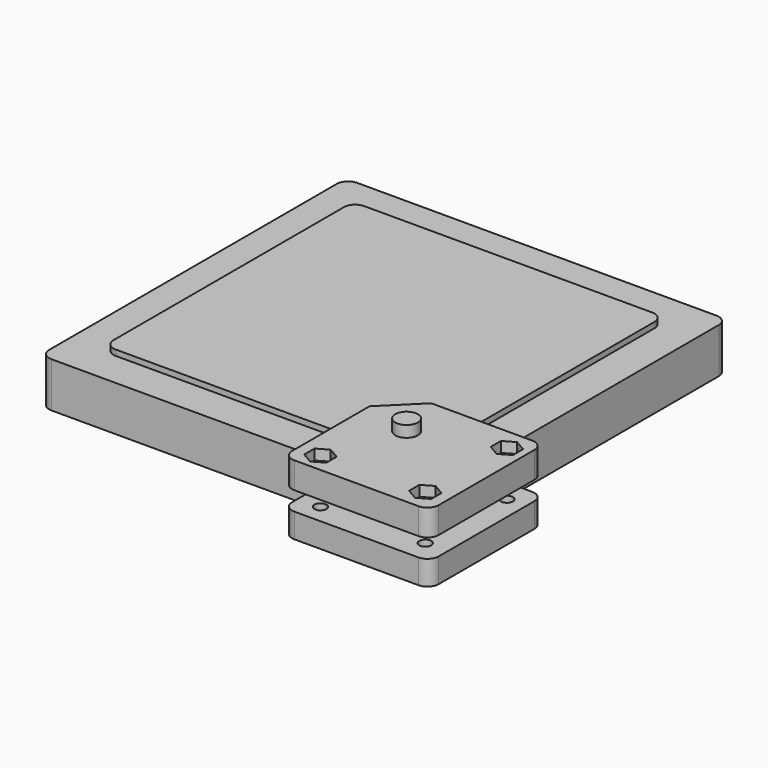
from build123d import *

# Parameters (mm, degrees)
F1_DEPTH  = 12
F0_R      = 3
F2_DEPTH  = 13.5
F3_DEPTH  = 19
F4_R      = 1.9
F5_DEPTH  = 7
F10_DEPTH = 2.8
F13_DEPTH = 6.5
F16_R     = 3.2
F17_DEPTH = 3.5
F19_R     = 1.6
F20_DEPTH = 6.501


with BuildPart() as f1:
    # F0 (on Top) → F1 (new body)
    with BuildSketch(Plane.XY):
        with BuildLine():
            Line((1.1045844555, 32.365380348), (-94.4954155445, 32.365380348))
            ThreePointArc((-94.4954155445, 32.365380348), (-96.6167358881, 31.4867006915), (-97.4954155445, 29.365380348))
            Line((-97.4954155445, 29.365380348), (-97.4954155445, -66.234619652))
            ThreePointArc((-97.4954155445, -66.234619652), (-96.6167358881, -68.3559399956), (-94.4954155445, -69.234619652))
            Line((-94.4954155445, -69.234619652), (1.1045844555, -69.234619652))
            ThreePointArc((1.1045844555, -69.234619652), (3.225904799, -68.3559399956), (4.1045844555, -66.234619652))
            Line((4.1045844555, -66.234619652), (4.1045844555, 29.365380348))
            ThreePointArc((4.1045844555, 29.365380348), (3.225904799, 31.4867006915), (1.1045844555, 32.365380348))
        make_face()
        with BuildLine():
            ThreePointArc((-87.9954155445, 19.865380348), (-87.1167358881, 21.9867006915), (-84.9954155445, 22.865380348))
            Line((-84.9954155445, 22.865380348), (-8.3954155445, 22.865380348))
            ThreePointArc((-8.3954155445, 22.865380348), (-6.274095201, 21.9867006915), (-5.3954155445, 19.865380348))
            Line((-5.3954155445, 19.865380348), (-5.3954155445, -56.734619652))
            ThreePointArc((-5.3954155445, -56.734619652), (-6.274095201, -58.8559399956), (-8.3954155445, -59.734619652))
            Line((-8.3954155445, -59.734619652), (-84.9954155445, -59.734619652))
            ThreePointArc((-84.9954155445, -59.734619652), (-87.1167358881, -58.8559399956), (-87.9954155445, -56.734619652))
            Line((-87.9954155445, -56.734619652), (-87.9954155445, 19.865380348))
        make_face(mode=Mode.SUBTRACT)
    extrude(amount=F1_DEPTH)

    # F0 (on Top) → F2 (join)
    with BuildSketch(Plane.XY):
        with BuildLine():
            Line((-8.3954155445, 22.865380348), (-84.9954155445, 22.865380348))
            ThreePointArc((-84.9954155445, 22.865380348), (-87.1167358881, 21.9867006915), (-87.9954155445, 19.865380348))
            Line((-87.9954155445, 19.865380348), (-87.9954155445, -56.734619652))
            ThreePointArc((-87.9954155445, -56.734619652), (-87.1167358881, -58.8559399956), (-84.9954155445, -59.734619652))
            Line((-84.9954155445, -59.734619652), (-8.3954155445, -59.734619652))
            ThreePointArc((-8.3954155445, -59.734619652), (-6.274095201, -58.8559399956), (-5.3954155445, -56.734619652))
            Line((-5.3954155445, -56.734619652), (-5.3954155445, 19.865380348))
            ThreePointArc((-5.3954155445, 19.865380348), (-6.274095201, 21.9867006915), (-8.3954155445, 22.865380348))
        make_face()
        with Locations((-11.8954155445, -54.434619652)):
            Circle(F0_R, mode=Mode.SUBTRACT)
    extrude(amount=F2_DEPTH)

    # F0 (on Top) → F3 (join)
    with BuildSketch(Plane.XY):
        with Locations((-11.8954155445, -54.434619652)):
            Circle(F0_R)
    extrude(amount=F3_DEPTH)


with BuildPart() as f5:
    # F4 (on Top) → F5 (new body)
    with BuildSketch(Plane.XY):
        with BuildLine():
            ThreePointArc((14.1045844555, -44.434619652), (13.225904799, -42.3132993085), (11.1045844555, -41.434619652))
            Line((11.1045844555, -41.434619652), (-15.7201327384, -41.434619652))
            Line((-15.7201327384, -41.434619652), (-24.8954155445, -50.4931248724))
            Line((-24.8954155445, -50.4931248724), (-24.8954155445, -76.234619652))
            ThreePointArc((-24.8954155445, -76.234619652), (-24.0167358881, -78.3559399956), (-21.8954155445, -79.234619652))
            Line((-21.8954155445, -79.234619652), (11.1045844555, -79.234619652))
            ThreePointArc((11.1045844555, -79.234619652), (13.225904799, -78.3559399956), (14.1045844555, -76.234619652))
            Line((14.1045844555, -76.234619652), (14.1045844555, -44.434619652))
        make_face()
        with Locations((-18.9954155445, -74.1897211546)):
            Circle(F4_R, mode=Mode.SUBTRACT)
        with Locations((8.2045844555, -73.334619652)):
            Circle(F4_R, mode=Mode.SUBTRACT)
        with Locations((9.113365896, -47.334619652)):
            Circle(F4_R, mode=Mode.SUBTRACT)
    extrude(amount=F5_DEPTH)


with BuildPart() as f5_1:
    # F6: moved
    add(f5.part.moved(Location((0, 0, 3))))

    # F9 (on offset) → F10 (cut)
    with BuildSketch(Plane.XY.offset(10)):
        Polygon((8.2045844555, -69.9282530638), (5.2545844555, -71.6314363579), (5.2545844555, -75.0378029461), (8.2045844555, -76.7409862402), (11.1545844555, -75.0378029461), (11.1545844555, -71.6314363579), align=None)
        Polygon((9.113365896, -43.9282530638), (6.163365896, -45.6314363579), (6.163365896, -49.0378029461), (9.113365896, -50.7409862402), (12.063365896, -49.0378029461), (12.063365896, -45.6314363579), align=None)
        Polygon((-18.9954155445, -70.7833545663), (-21.9454155445, -72.4865378605), (-21.9454155445, -75.8929044487), (-18.9954155445, -77.5960877428), (-16.0454155445, -75.8929044487), (-16.0454155445, -72.4865378605), align=None)
    extrude(amount=-F10_DEPTH, mode=Mode.SUBTRACT)


with BuildPart() as f5_2:
    # F11: moved
    add(f5_1.part.moved(Location((0, 0, 8.8))))


with BuildPart() as f5_3:
    # F12: moved
    add(f5_2.part.moved(Location((0, 0, -0.8))))


with BuildPart() as f13:
    # F7 (on Top) → F13 (new body)
    with BuildSketch(Plane.XY):
        with BuildLine():
            Line((11.1045844555, -41.434619652), (4.1045844555, -41.434619652))
            Line((4.1045844555, -41.434619652), (-24.8954155445, -69.234619652))
            Line((-24.8954155445, -69.234619652), (-24.8954155445, -76.234619652))
            ThreePointArc((-24.8954155445, -76.234619652), (-24.0167358881, -78.3559399956), (-21.8954155445, -79.234619652))
            Line((-21.8954155445, -79.234619652), (11.1045844555, -79.234619652))
            ThreePointArc((11.1045844555, -79.234619652), (13.225904799, -78.3559399956), (14.1045844555, -76.234619652))
            Line((14.1045844555, -76.234619652), (14.1045844555, -44.434619652))
            ThreePointArc((14.1045844555, -44.434619652), (13.225904799, -42.3132993085), (11.1045844555, -41.434619652))
        make_face()
    extrude(amount=F13_DEPTH)


with BuildPart() as f13_1:
    # F14: moved
    add(f13.part.moved(Location((0, 0, -2.5))))

    # F16 (on offset) → F17 (cut)
    with BuildSketch(Plane(origin=(0, 0, -2.5), x_dir=(1, 0, 0), z_dir=(0, 0, -1))):
        with Locations((-18.9954155445, 74.1897211546)):
            Circle(F16_R)
        with Locations((8.2045844555, 73.334619652)):
            Circle(F16_R)
        with Locations((9.113365896, 47.334619652)):
            Circle(F16_R)
    extrude(amount=-F17_DEPTH, mode=Mode.SUBTRACT)

    # F19 (on offset) → F20 (cut, through all)
    with BuildSketch(Plane.XY.offset(4)):
        with Locations((-18.9954155445, -74.1897211546)):
            Circle(F19_R)
        with Locations((9.113365896, -47.334619652)):
            Circle(F19_R)
        with Locations((8.2045844555, -73.334619652)):
            Circle(F19_R)
    extrude(amount=-F20_DEPTH, mode=Mode.SUBTRACT)

    # F21: cut F1
    add(f1.part, mode=Mode.SUBTRACT)


with BuildPart() as f5_4:
    # F22: moved
    add(f5_3.part.moved(Location((0, 0, -2))))


solid = Compound([f1.part, f13_1.part, f5_4.part])
